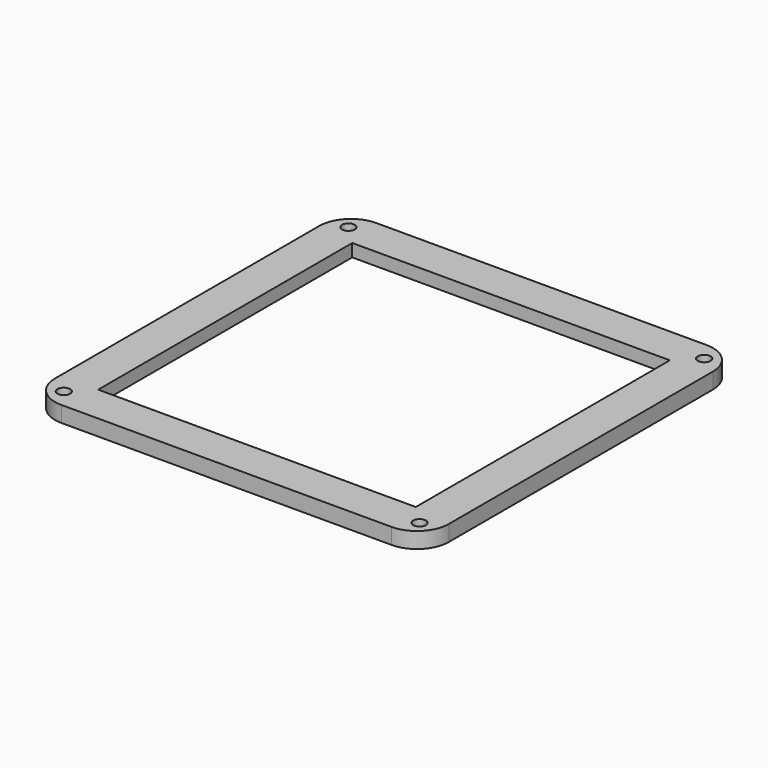
from build123d import *

# Parameters (mm, degrees)
F0_R     = 1
F0_W     = 52
F0_H     = 52
F0_W_2   = 50
F0_H_2   = 50
F1_DEPTH = 2.5
F2_DEPTH = 0.5
F3_W     = 52
F3_H     = 5
F4_DEPTH = 0.5


with BuildPart() as f1:
    # F0 (on Top) → F1 (new body)
    with BuildSketch(Plane.XY):
        with BuildLine():
            Line((57, 0), (5, 0))
            ThreePointArc((5, 0), (1.464466, -1.464466), (0, -5))
            Line((0, -5), (0, -57))
            ThreePointArc((0, -57), (1.464466, -60.535534), (5, -62))
            Line((5, -62), (57, -62))
            ThreePointArc((57, -62), (60.535534, -60.535534), (62, -57))
            Line((62, -57), (62, -5))
            ThreePointArc((62, -5), (60.535534, -1.464466), (57, 0))
        make_face()
        with Locations((3, -59)):
            Circle(F0_R, mode=Mode.SUBTRACT)
        with Locations((59, -59)):
            Circle(F0_R, mode=Mode.SUBTRACT)
        with Locations((3, -3)):
            Circle(F0_R, mode=Mode.SUBTRACT)
        with Locations((31, -31)):
            Rectangle(F0_W, F0_H, mode=Mode.SUBTRACT)
        with Locations((59, -3)):
            Circle(F0_R, mode=Mode.SUBTRACT)
        with Locations((31, -31)):
            Rectangle(F0_W, F0_H)
        with Locations((31, -31)):
            Rectangle(F0_W_2, F0_H_2, mode=Mode.SUBTRACT)
    extrude(amount=F1_DEPTH)

    # F0 (on Top) → F2 (cut)
    with BuildSketch(Plane.XY):
        with Locations((31, -31)):
            Rectangle(F0_W, F0_H)
        with Locations((31, -31)):
            Rectangle(F0_W_2, F0_H_2, mode=Mode.SUBTRACT)
    extrude(amount=F2_DEPTH, mode=Mode.SUBTRACT)

    # F3 (on face) → F4 (cut)
    with BuildSketch(Plane.XY):
        with Locations((31, -2.5)):
            Rectangle(F3_W, F3_H)
    extrude(amount=F4_DEPTH, mode=Mode.SUBTRACT)


solid = f1.part
